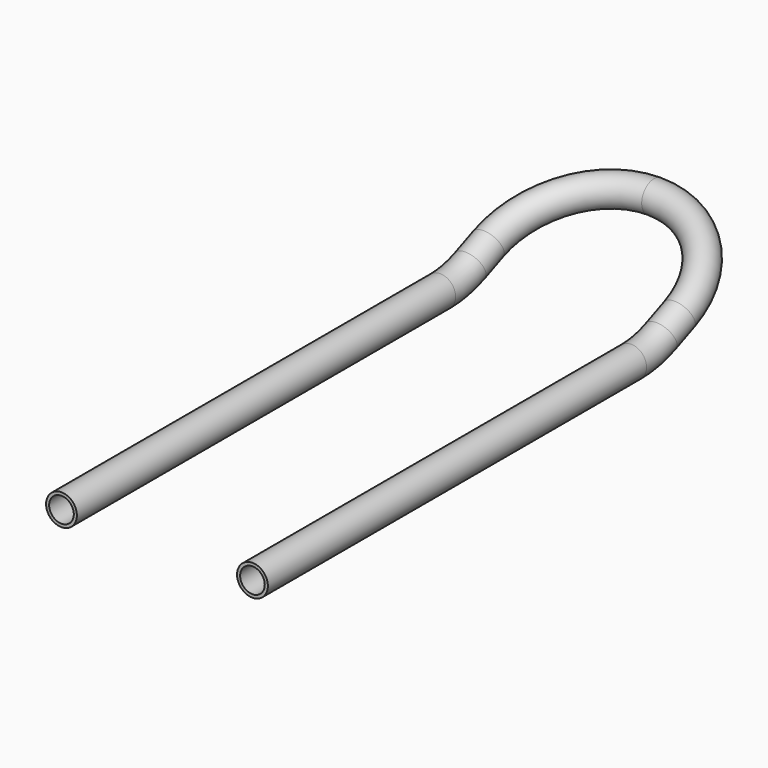
from build123d import *

# Parameters (mm, degrees)
F5_R   = 12.5
F5_R_2 = 9.9999973178


with BuildPart() as f8:
    # F8: sweep along a path in F7, F3
    with BuildLine(Plane(origin=(77.5, 0, 0), x_dir=(0, -1, 0), z_dir=(-1, 0, 0))) as f8_path:
        Line((400, 0), (15.7675532053, 0))
        ThreePointArc((15.7675532053, 0), (0.316538288, 1.5558353919), (-14.5141092526, 6.1608738574))
        Line((-14.5141092526, 6.1608738574), (-32.9246175983, 13.9756710038))
    with BuildLine(Plane(origin=(0, 0, 0), x_dir=(1, 0, 0), z_dir=(0, 0.3907311285, -0.9205048535))) as f8_path_2:
        ThreePointArc((77.5, -35.768), (54.800775542, -90.568775542), (0, -113.268))
    # F5 (on plane+point) → F8 (sweep)
    with BuildSketch(Plane.XZ.offset(400)):
        with Locations((77.5, 0)):
            Circle(F5_R)
        with Locations((77.5, 0)):
            Circle(F5_R_2, mode=Mode.SUBTRACT)
    sweep(path=f8_path.line + f8_path_2.line)

    # F9: F8 across plane


with BuildPart() as f8_1:
    add(f8.part)
    add(f8.part.mirror(Plane.YZ))


solid = f8_1.part
